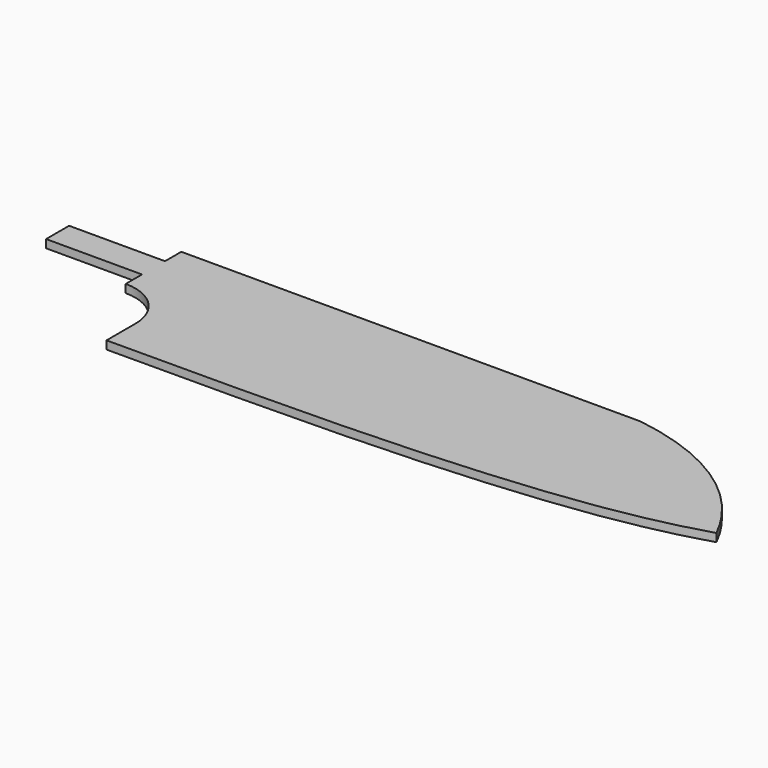
from build123d import *

# Parameters (mm, degrees)
F1_DEPTH = 2.159


with BuildPart() as f1:
    # F0 (on Top) → F1 (new body)
    with BuildSketch(Plane.XY):
        with BuildLine():
            add(Edge.make_bspline(
                [(32.7343828976, 20.32), (49.2011681199, 17.9275516421), (66.9959262013, 9.6941580996), (76.2, -8.8973781094)],
                knots=[0, 0, 0, 0, 52.3728465302, 52.3728465302, 52.3728465302, 52.3728465302], degree=3))
            Line((32.7343828976, 20.32), (-76.2, 20.32))
            Line((-76.2, 20.32), (-88.9, 20.32))
            Line((-88.9, 20.32), (-88.9, 14.9225))
            Line((-88.9, 14.9225), (-114.3, 14.9225))
            Line((-114.3, 14.9225), (-114.3, 7.3025))
            Line((-114.3, 7.3025), (-88.9, 7.3025))
            Line((-88.9, 7.3025), (-88.9, 1.905))
            ThreePointArc((-88.9, 1.905), (-79.9197438789, -1.8147438789), (-76.2, -10.795))
            Line((-76.2, -10.795), (-76.2, -20.32))
            add(Edge.make_bspline(
                [(-76.2, -20.32), (-27.4205083204, -20.32), (18.5684725391, -19.3262068454), (60.0895812138, -13.8769824012), (76.2, -8.8973781094)],
                knots=[0, 0, 0, 0, 0.5808971053, 1, 1, 1, 1], degree=3))
        make_face()
    extrude(amount=F1_DEPTH)


solid = f1.part
